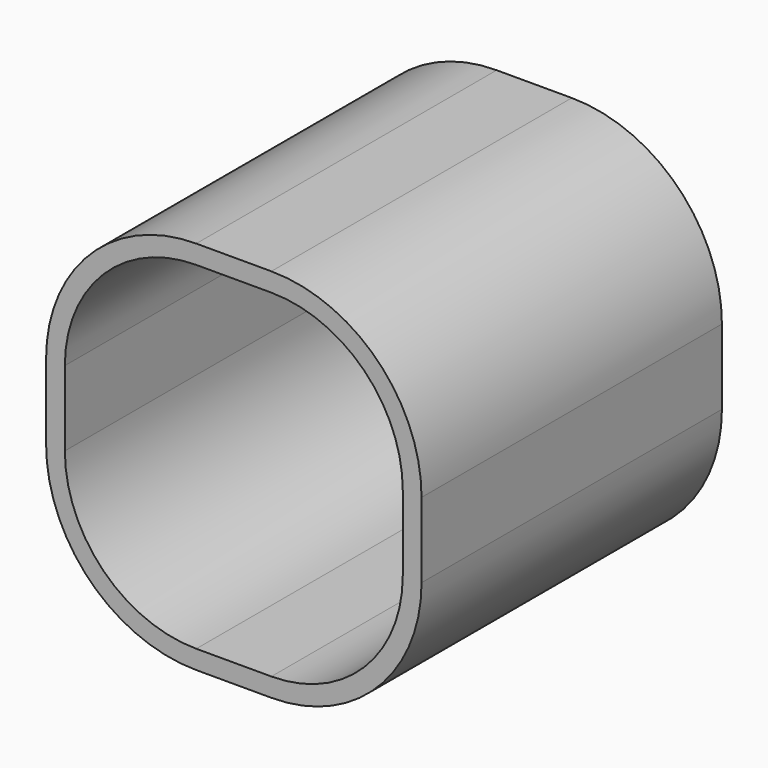
from build123d import *

# Parameters (mm, degrees)
F0_W     = 50
F0_H     = 50
F1_DEPTH = 50
F2_R     = 20
F3_T     = -2.5


with BuildPart() as f1:
    # F0 (on Top) → F1 (new body)
    with BuildSketch(Plane.XY):
        with Locations((0, 1.597746)):
            Rectangle(F0_W, F0_H)
    extrude(amount=F1_DEPTH)

    # F2
    f2_edges = [f1.edges().sort_by_distance(p)[0] for p in [
        (25, 1.597746, 0),
        (-25, 1.597746, 0),
        (25, 1.597746, 50),
        (-25, 1.597746, 50),
    ]]
    fillet(f2_edges, radius=F2_R)

    # F3
    f3_openings = [f1.faces().sort_by_distance(p)[0] for p in [
        (0, -23.402254, 25),
    ]]
    offset(amount=F3_T, openings=f3_openings)


solid = f1.part
